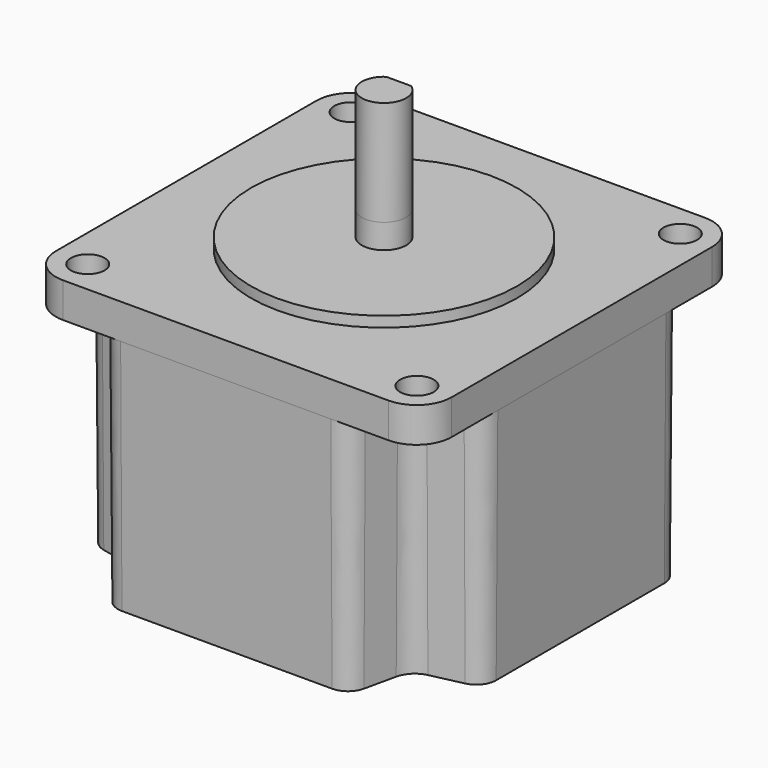
from build123d import *

# Parameters (mm, degrees)
F0_W      = 56.5
F0_H      = 56.5
F1_DEPTH  = 5
F3_DEPTH  = 34
F3_TAPER  = 0.4
F4_R      = 2.4
F5_DEPTH  = 5
F6_R      = 5
F7_R      = 19
F8_DEPTH  = 1.5
F9_R      = 3.175
F10_DEPTH = 3.5
F12_DEPTH = 15


with BuildPart() as f1:
    # F0 (on Top) → F1 (new body)
    with BuildSketch(Plane.XY):
        Rectangle(F0_W, F0_H)
    extrude(amount=-F1_DEPTH)

    # F2 (on face) → F3 (join)
    with BuildSketch(Plane(origin=(0, 0, -5), x_dir=(1, 0, 0), z_dir=(0, 0, -1))):
        with BuildLine():
            Line((15, 28.25), (0, 28.25))
            Line((0, 28.25), (-15, 28.25))
            ThreePointArc((-15, 28.25), (-16.9232649975, 27.5737223332), (-18, 25.842554673))
            Line((-18, 25.842554673), (-19, 21.3345213365))
            ThreePointArc((-19, 21.3345213365), (-19.8271146082, 19.8271146082), (-21.3345213365, 19))
            Line((-21.3345213365, 19), (-25.842554673, 18))
            ThreePointArc((-25.842554673, 18), (-27.5737223332, 16.9232649975), (-28.25, 15))
            Line((-28.25, 15), (-28.25, 0))
            Line((-28.25, 0), (-28.25, -15))
            ThreePointArc((-28.25, -15), (-27.5737223332, -16.9232649975), (-25.842554673, -18))
            Line((-25.842554673, -18), (-21.3345213365, -19))
            ThreePointArc((-21.3345213365, -19), (-19.8271146082, -19.8271146082), (-19, -21.3345213365))
            Line((-19, -21.3345213365), (-18, -25.842554673))
            ThreePointArc((-18, -25.842554673), (-16.9232649975, -27.5737223332), (-15, -28.25))
            Line((-15, -28.25), (0, -28.25))
            Line((0, -28.25), (15, -28.25))
            ThreePointArc((15, -28.25), (16.9232649975, -27.5737223332), (18, -25.842554673))
            Line((18, -25.842554673), (19, -21.3345213365))
            ThreePointArc((19, -21.3345213365), (19.8271146082, -19.8271146082), (21.3345213365, -19))
            Line((21.3345213365, -19), (25.842554673, -18))
            ThreePointArc((25.842554673, -18), (27.5737223332, -16.9232649975), (28.25, -15))
            Line((28.25, -15), (28.25, 0))
            Line((28.25, 0), (28.25, 15))
            ThreePointArc((28.25, 15), (27.5737223332, 16.9232649975), (25.842554673, 18))
            Line((25.842554673, 18), (21.3345213365, 19))
            ThreePointArc((21.3345213365, 19), (19.8271146082, 19.8271146082), (19, 21.3345213365))
            Line((19, 21.3345213365), (18, 25.842554673))
            ThreePointArc((18, 25.842554673), (16.9232649975, 27.5737223332), (15, 28.25))
        make_face()
    extrude(amount=F3_DEPTH, taper=F3_TAPER)

    # F4 (on face) → F5 (cut, through all)
    with BuildSketch(Plane.XY):
        with Locations((-23.5, 23.5)):
            Circle(F4_R)
        with Locations((23.5, 23.5)):
            Circle(F4_R)
        with Locations((-23.5, -23.5)):
            Circle(F4_R)
        with Locations((23.5, -23.5)):
            Circle(F4_R)
    extrude(amount=-F5_DEPTH, mode=Mode.SUBTRACT)

    # F6
    f6_edges = [f1.edges().sort_by_distance(p)[0] for p in [
        (28.25, 28.25, -2.5),
        (-28.25, 28.25, -2.5),
        (-28.25, -28.25, -2.5),
        (28.25, -28.25, -2.5),
    ]]
    fillet(f6_edges, radius=F6_R)

    # F7 (on face) → F8 (join)
    with BuildSketch(Plane.XY):
        Circle(F7_R)
    extrude(amount=F8_DEPTH)

    # F9 (on face) → F10 (join)
    with BuildSketch(Plane.XY.offset(1.5)):
        Circle(F9_R)
    extrude(amount=F10_DEPTH)

    # F11 (on face) → F12 (join)
    with BuildSketch(Plane.XY.offset(5)):
        with BuildLine():
            Line((1.7860571099, 2.625), (-1.7860571099, 2.625))
            ThreePointArc((-1.7860571099, 2.625), (0, -3.175), (1.7860571099, 2.625))
        make_face()
    extrude(amount=F12_DEPTH)


solid = f1.part
